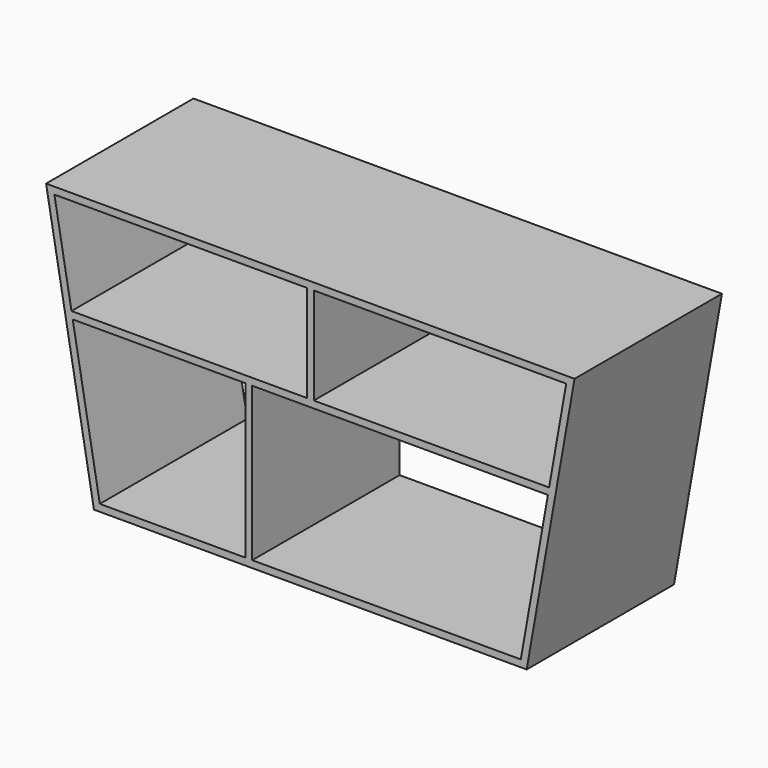
from build123d import *

# Parameters (mm, degrees)
F1_DEPTH = 482.6


with BuildPart() as f1:
    # F0 (on Front) → F1 (new body)
    with BuildSketch(Plane.XZ):
        Polygon((-1168.580558, 711.2), (-1043.176809, 0), (90.315694, 0), (215.719442, 711.2), align=None)
        Polygon((-646.83134, 18.288017), (-1027.83134, 18.288017), (-1098.774026, 420.623983), (-646.83134, 420.623983), align=None, mode=Mode.SUBTRACT)
        Polygon((145.912911, 420.623983), (74.970225, 18.288017), (-628.54334, 18.288017), (-628.54334, 420.623983), align=None, mode=Mode.SUBTRACT)
        Polygon((-1101.998694, 438.911983), (-1146.785747, 692.911983), (-485.574558, 692.911983), (-485.574558, 438.911983), align=None, mode=Mode.SUBTRACT)
        Polygon((-467.286558, 692.911983), (193.924632, 692.911983), (149.137579, 438.911983), (-467.286558, 438.911983), align=None, mode=Mode.SUBTRACT)
    extrude(amount=F1_DEPTH)


solid = f1.part
